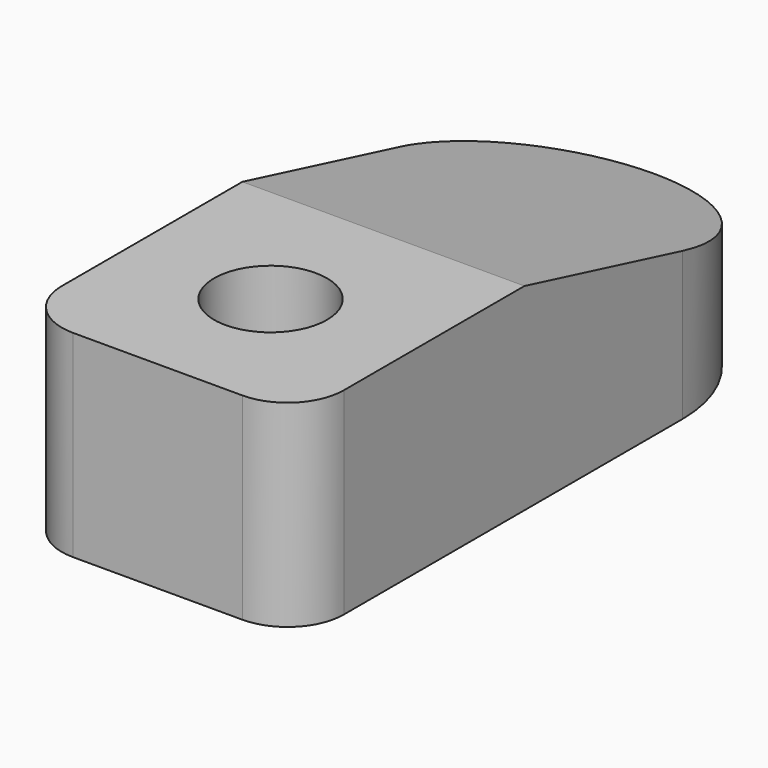
from build123d import *

# Parameters (mm, degrees)
PAD_DEPTH       = 7
POCKET_DEPTH    = 10.001
SKETCH002_R     = 2
POCKET001_DEPTH = 7.001
FILLET_R        = 2


with BuildPart() as part:
    # Sketch → Pad (new body)
    with BuildSketch(Plane.XY):
        with BuildLine():
            Line((0, 0), (10, 0))
            Line((10, 0), (10, 17))
            ThreePointArc((10, 17), (5.000011, 22.000022), (0, 17.000022))
            Line((0, 17.000022), (0, 0))
        make_face()
    extrude(amount=PAD_DEPTH)

    # Sketch001 → Pocket (cut, through all)
    with BuildSketch(Plane.YZ.offset(10)):
        Polygon((10, 8), (23, 8), (23, 3.75), (10, 7), align=None)
    extrude(amount=-POCKET_DEPTH, mode=Mode.SUBTRACT)

    # Sketch002 → Pocket001 (cut, through all)
    with BuildSketch(Plane.XY.offset(7)):
        with Locations((5, 5)):
            Circle(SKETCH002_R)
    extrude(amount=-POCKET001_DEPTH, mode=Mode.SUBTRACT)

    # Fillet
    fillet_edges = [part.edges().sort_by_distance(p)[0] for p in [
        (0, 0, 3.5),
        (10, 0, 3.5),
    ]]
    fillet(fillet_edges, radius=FILLET_R)


solid = part.part
